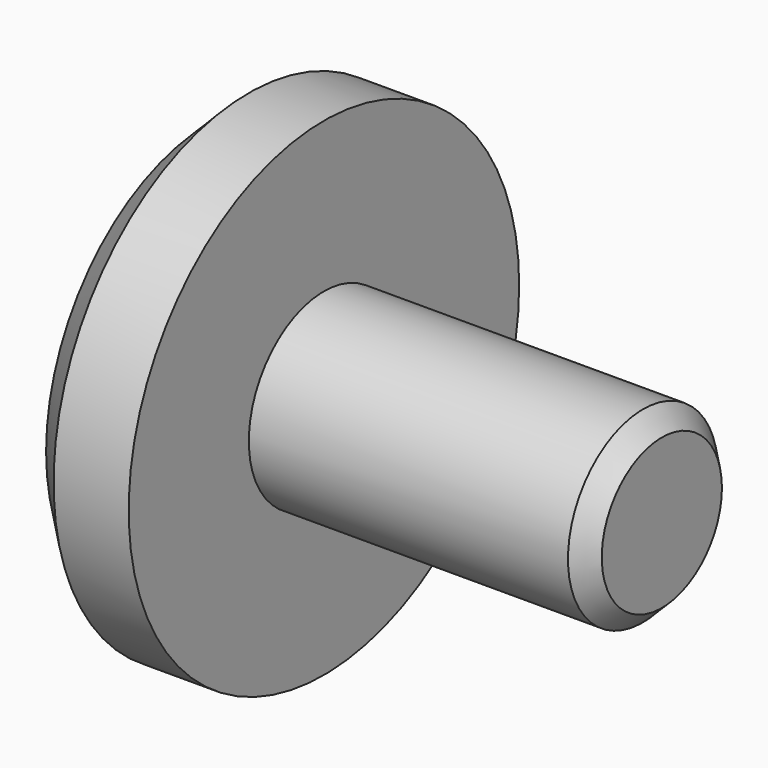
from build123d import *

# Parameters (mm, degrees)
F2_SIZE2 = 10
F2_SIZE  = 10
F3_SIZE  = 5


with BuildPart() as f1:
    # F0 (on Top) → F1 (revolve)
    with BuildSketch(Plane.XY):
        Polygon((0, 65), (0, 0), (120, 0), (120, 25), (102, 25), (30, 25), (30, 65), align=None)
    revolve(axis=Axis((60, 0, 0), (-1, 0, 0)))

    # F2
    f2_edges = [f1.edges().sort_by_distance(p)[0] for p in [
        (0, -65, 0),
    ]]
    chamfer(f2_edges, length=F2_SIZE, length2=F2_SIZE2)

    # F3
    f3_edges = [f1.edges().sort_by_distance(p)[0] for p in [
        (120, -25, 0),
    ]]
    chamfer(f3_edges, length=F3_SIZE)


solid = f1.part
